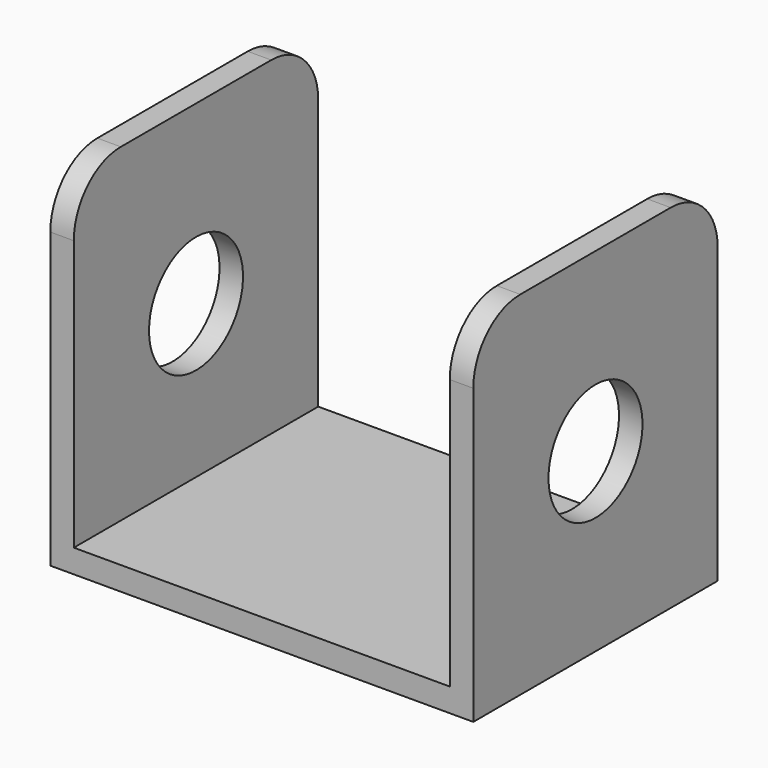
from build123d import *

# Parameters (mm, degrees)
F1_DEPTH = 2
F0_W     = 2
F0_H     = 26
F2_DEPTH = 30
F3_R     = 5
F4_DEPTH = 2
F5_R     = 5


with BuildPart() as f1:
    # F0 (on Top) → F1 (new body)
    with BuildSketch(Plane.XY):
        Polygon((0, 0), (0, 18.390671), (-16, 18.390671), (-16, -7.609329), (0, -7.609329), align=None)
    extrude(amount=F1_DEPTH)

    # F0 (on Top) → F2 (join)
    with BuildSketch(Plane.XY):
        with Locations((-17, 5.390671)):
            Rectangle(F0_W, F0_H)
    extrude(amount=F2_DEPTH)

    # F3 (on face) → F4 (cut)
    with BuildSketch(Plane(origin=(-18, 0, 0), x_dir=(0, -1, 0), z_dir=(-1, 0, 0))):
        with Locations((-5.390671, 15)):
            Circle(F3_R)
    extrude(amount=-F4_DEPTH, mode=Mode.SUBTRACT)

    # F5
    f5_edges = [f1.edges().sort_by_distance(p)[0] for p in [
        (-17, 18.390671, 30),
        (-17, -7.609329, 30),
    ]]
    fillet(f5_edges, radius=F5_R)

    # F6: F1 across plane


with BuildPart() as f1_1:
    add(f1.part)
    add(f1.part.mirror(Plane.YZ))


solid = f1_1.part
